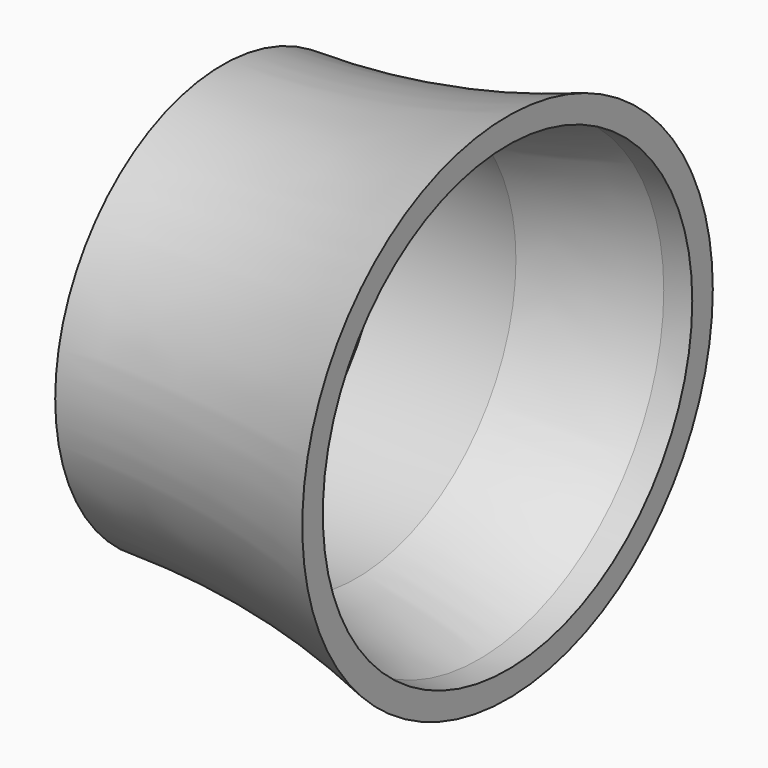
from build123d import *

# Parameters (mm, degrees)
F0_R     = 21
F1_DEPTH = 30
F2_W     = 30
F2_H     = 22
F4_R     = 21
F5_DEPTH = 30
F6_SCALE = 0.9
F8_DEPTH = 25


with BuildPart() as f1:
    # F0 (on Right) → F1 (new body)
    with BuildSketch(Plane.YZ):
        Circle(F0_R)
    extrude(amount=F1_DEPTH)

    # F2 (on Top) → F3 (revolve)
    with BuildSketch(Plane.XY):
        with BuildLine():
            ThreePointArc((30, 27), (15.2069063257, 23.2585620455), (0, 22))
            Line((0, 22), (30, 22))
            Line((30, 22), (30, 27))
        make_face()
        with Locations((15, 11)):
            Rectangle(F2_W, F2_H)
    revolve(axis=Axis((15, 0, 0), (1, 0, 0)))

    # F4 (on face) → F5 (cut)
    with BuildSketch(Plane(origin=(0, 0, 0), x_dir=(0, -1, 0), z_dir=(-1, 0, 0))):
        Circle(F4_R)
    extrude(amount=-F5_DEPTH, mode=Mode.SUBTRACT)


with BuildPart() as f6_1:
    # F6: copy of F1
    add(f1.part.scale(F6_SCALE))


with BuildPart() as f1_1:
    add(f1.part)

    # F7: cut F6_1
    add(f6_1.part, mode=Mode.SUBTRACT)

    # F8 (cut): a face of the model
    f8_faces = [f1_1.faces().sort_by_distance(p)[0] for p in [
        (27, -23.6126922087, 0),
    ]]
    extrude(f8_faces, amount=-F8_DEPTH, mode=Mode.SUBTRACT)


solid = f1_1.part
